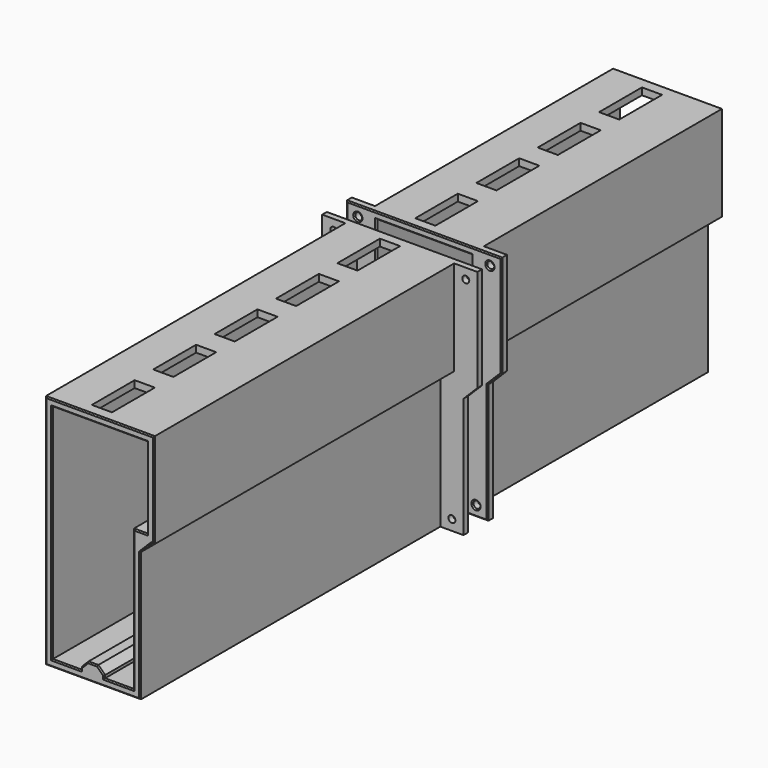
from build123d import *

# Parameters (mm, degrees)
F1_DEPTH  = 165
F2_W      = 8.7
F2_H      = 5
F2_H_2    = 10
F2_H_3    = 4.5345870574
F3_DEPTH  = 3
F4_SIZE   = 5
F5_R      = 1.5
F6_DEPTH  = 3
F7_SIZE   = 0.5
F12_DEPTH = 33.125
F13_SIZE  = 0.4


with BuildPart() as f1:
    # F0 (on Front) → F1 (new body)
    with BuildSketch(Plane.XZ):
        Polygon((0, 1.2), (0, 0), (-12.5, 0), (-12.5, 96), (0.65, 96), (0.65, 99), (-15.5, 99), (-15.5, -3), (5, -3), (25.5, -3), (25.5, 58), (31.5, 58), (31.5, 99), (9.35, 99), (9.35, 96), (22.5, 96), (28.5, 96), (28.5, 61), (22.5, 61), (22.5, 0), (10, 0), (10, 1.2), (7.1, 4.1), (5, 4.1), (2.9, 4.1), align=None)
    extrude(amount=F1_DEPTH)

    # F2 (on face) → F3 (join, through all)
    with BuildSketch(Plane.XY.offset(99)):
        with Locations((5, -162.5)):
            Rectangle(F2_W, F2_H)
        Polygon((0.65, -131.875), (0.65, -136.875), (9.35, -136.875), (9.35, -126.875), (0.65, -126.875), align=None)
        with Locations((5, -98.75)):
            Rectangle(F2_W, F2_H_2)
        with Locations((5, -65.625)):
            Rectangle(F2_W, F2_H_2)
        with Locations((5, -32.5)):
            Rectangle(F2_W, F2_H_2)
        with Locations((5, -2.2672935287)):
            Rectangle(F2_W, F2_H_3)
    extrude(amount=-F3_DEPTH)

    # F4
    f4_edges = [f1.edges().sort_by_distance(p)[0] for p in [
        (25.5, -82.5, 58),
    ]]
    chamfer(f4_edges, length=F4_SIZE)

    # F5 (on face) → F6 (join)
    with BuildSketch(Plane(origin=(0, 0, 0), x_dir=(-1, 0, 0), z_dir=(0, 1, 0))):
        Polygon((25.5, -3), (25.5, 99), (-41.5, 99), (-41.5, 54.8578643763), (-35.5, 48.8578643763), (-35.5, -3), align=None)
        with Locations((-30.5, 1.5)):
            Circle(F5_R, mode=Mode.SUBTRACT)
        with Locations((20.5, 1.5)):
            Circle(F5_R, mode=Mode.SUBTRACT)
        with Locations((-36.5, 94.5)):
            Circle(F5_R, mode=Mode.SUBTRACT)
        Polygon((-22.5, 0), (-22.5, 61), (-28.5, 61), (-28.5, 96), (12.5, 96), (12.5, 0), (0, 0), (0, 1.2), (-2.9, 4.1), (-7.1, 4.1), (-10, 1.2), (-10, 0), align=None, mode=Mode.SUBTRACT)
        with Locations((20.5, 94.5)):
            Circle(F5_R, mode=Mode.SUBTRACT)
    extrude(amount=-F6_DEPTH)

    # F7
    f7_edges = [f1.edges().sort_by_distance(p)[0] for p in [
        (35.5, 0, 22.928932),
        (38.5, 0, 51.857864),
        (41.5, 0, 76.928932),
        (8, 0, 99),
        (-25.5, 0, 48),
        (5, 0, -3),
        (8, 0, 96),
        (28.5, 0, 78.5),
        (25.5, 0, 61),
        (22.5, 0, 30.5),
        (16.25, 0, 0),
        (10, 0, 0.6),
        (8.55, 0, 2.65),
        (5, 0, 4.1),
        (1.45, 0, 2.65),
        (0, 0, 0.6),
        (-6.25, 0, 0),
        (-12.5, 0, 48),
        (32, 0, 1.5),
        (38, 0, 94.5),
        (-19, 0, 94.5),
        (-19, 0, 1.5),
        (25.5, -165, 25),
        (28, -165, 55.5),
        (5, -165, -3),
        (31, -165, 58),
        (-15.5, -165, 48),
        (31.5, -165, 78.5),
        (8, -165, 99),
        (28.5, -165, 78.5),
        (25.5, -165, 61),
        (22.5, -165, 30.5),
        (16.25, -165, 0),
        (10, -165, 0.6),
        (8.55, -165, 2.65),
        (5, -165, 4.1),
        (1.45, -165, 2.65),
        (0, -165, 0.6),
        (-6.25, -165, 0),
        (-12.5, -165, 48),
        (8, -165, 96),
    ]]
    chamfer(f7_edges, length=F7_SIZE)


with BuildPart() as f9_1:
    # F9: instance of F1
    add(f1.part.mirror(Plane(origin=(6.7486416271, 5, 47.845952448), x_dir=(-1, 0, 0), z_dir=(0, 1, 0))))

    # F11 (on face) → F12 (cut, through all)
    with BuildSketch(Plane(origin=(0, 175, 0), x_dir=(-1, 0, 0), z_dir=(0, 1, 0))):
        Polygon((-30.5, -8), (20.5, -8), (20.5, 104), (-36.5, 104), (-36.5, 56.9289321881), (-30.5, 50.9289321881), align=None)
    extrude(amount=-F12_DEPTH, mode=Mode.SUBTRACT)

    # F13
    f13_edges = [f9_1.edges().sort_by_distance(p)[0] for p in [
        (25.5, 141.875, 25),
        (28, 141.875, 55.5),
        (31, 141.875, 58),
        (31.5, 141.875, 78.5),
        (8, 141.875, 99),
        (-15.5, 141.875, 48),
        (5, 141.875, -3),
        (28.5, 141.875, 78.5),
        (25.5, 141.875, 61),
        (22.5, 141.875, 30.5),
        (16.25, 141.875, 0),
        (10, 141.875, 0.6),
        (8.55, 141.875, 2.65),
        (5, 141.875, 4.1),
        (1.45, 141.875, 2.65),
        (0, 141.875, 0.6),
        (-6.25, 141.875, 0),
        (-12.5, 141.875, 48),
        (8, 141.875, 96),
    ]]
    chamfer(f13_edges, length=F13_SIZE)


solid = Compound([f1.part, f9_1.part])
